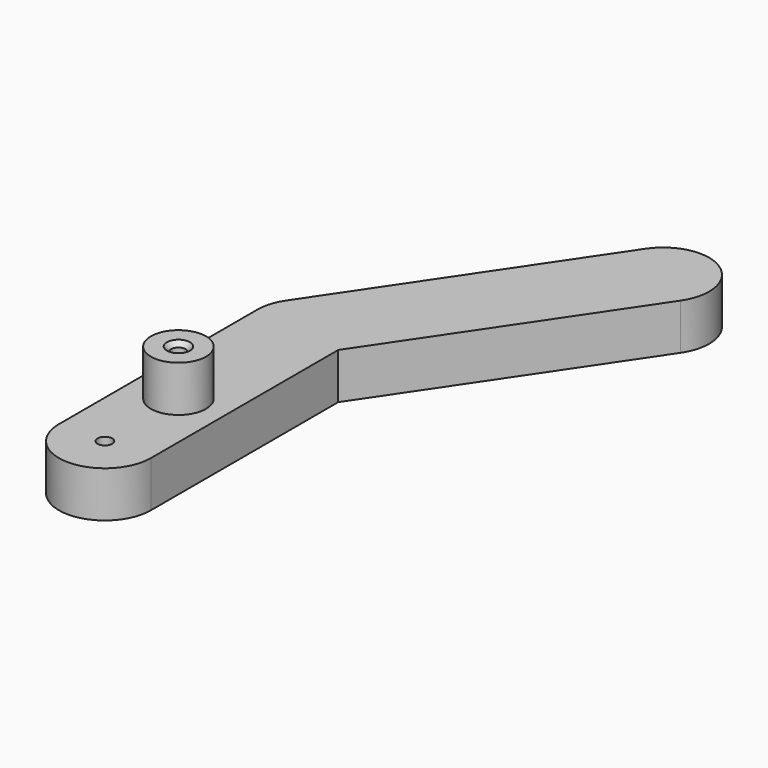
from build123d import *

# Parameters (mm, degrees)
F1_DEPTH       = 6.35
F2_R           = 3.81
F3_DEPTH       = 6.35
F5_D           = 2.032
F5_CSINK_D     = 3.175
F5_CSINK_ANGLE = 82
F7_D           = 2.032


with BuildPart() as f1:
    # F0 (on Top) → F1 (new body)
    with BuildSketch(Plane.XY):
        with BuildLine():
            ThreePointArc((6.35, 12.7), (4.4901280605, 8.2098719395), (0, 6.35))
            ThreePointArc((0, 6.35), (-4.4901280605, 8.2098719395), (-6.35, 12.7))
            Line((-6.35, 12.7), (-6.35, 0))
            ThreePointArc((-6.35, 0), (0, -6.35), (6.35, 0))
            Line((6.35, 0), (6.35, 12.7))
        make_face()
        with BuildLine():
            Line((6.35, 34.29), (6.35, 32.3486101727))
            Line((6.35, 32.3486101727), (27.9899881828, 64.4312120116))
            ThreePointArc((27.9899881828, 64.4312120116), (26.2764745341, 73.2464755344), (17.4612110113, 71.5329618857))
            Line((17.4612110113, 71.5329618857), (-5.2643885857, 37.840874937))
            ThreePointArc((-5.2643885857, 37.840874937), (-1.2116371206, 40.5233326149), (3.550874937, 39.5543885857))
            ThreePointArc((3.550874937, 39.5543885857), (5.6067172147, 37.2711444237), (6.35, 34.29))
        make_face()
        with BuildLine():
            Line((0, 12.7), (0, 6.35))
            ThreePointArc((0, 6.35), (4.4901280605, 8.2098719395), (6.35, 12.7))
            ThreePointArc((6.35, 12.7), (4.4901280605, 17.1901280605), (0, 19.05))
            Line((0, 19.05), (0, 12.7))
        make_face()
        with BuildLine():
            ThreePointArc((-6.35, 12.7), (-4.4901280605, 8.2098719395), (0, 6.35))
            Line((0, 6.35), (0, 12.7))
            Line((0, 12.7), (0, 19.05))
            ThreePointArc((0, 19.05), (-4.4901280605, 17.1901280605), (-6.35, 12.7))
        make_face()
        with BuildLine():
            Line((-6.35, 34.29), (-6.35, 12.7))
            ThreePointArc((-6.35, 12.7), (-4.4901280605, 17.1901280605), (0, 19.05))
            Line((0, 19.05), (0, 27.94))
            ThreePointArc((0, 27.94), (-4.4901280605, 29.7998719395), (-6.35, 34.29))
        make_face()
        with BuildLine():
            ThreePointArc((0, 19.05), (4.4901280605, 17.1901280605), (6.35, 12.7))
            Line((6.35, 12.7), (6.35, 32.3486101727))
            Line((6.35, 32.3486101727), (5.2643885857, 30.739125063))
            ThreePointArc((5.2643885857, 30.739125063), (2.9811444237, 28.6832827853), (0, 27.94))
            Line((0, 27.94), (0, 19.05))
        make_face()
        with BuildLine():
            ThreePointArc((-5.2643885857, 37.840874937), (-6.0725352004, 36.146560325), (-6.35, 34.29))
            ThreePointArc((-6.35, 34.29), (-4.4901280605, 29.7998719395), (0, 27.94))
            Line((0, 27.94), (0, 34.29))
            Line((0, 34.29), (3.550874937, 39.5543885857))
            ThreePointArc((3.550874937, 39.5543885857), (-1.2116371206, 40.5233326149), (-5.2643885857, 37.840874937))
        make_face()
        with BuildLine():
            Line((5.2643885857, 30.739125063), (6.35, 32.3486101727))
            Line((6.35, 32.3486101727), (6.35, 34.29))
            ThreePointArc((6.35, 34.29), (5.6067172147, 37.2711444237), (3.550874937, 39.5543885857))
            Line((3.550874937, 39.5543885857), (0, 34.29))
            Line((0, 34.29), (0, 27.94))
            ThreePointArc((0, 27.94), (2.9811444237, 28.6832827853), (5.2643885857, 30.739125063))
        make_face()
    extrude(amount=F1_DEPTH)

    # F2 (on face) → F3 (join)
    with BuildSketch(Plane.XY.offset(6.35)):
        with Locations((0, 12.7)):
            Circle(F2_R)
    extrude(amount=F3_DEPTH)

    # F5 (through all)
    with Locations(Plane.XY.offset(12.7)):
        with Locations((0, 12.7)):
            CounterSinkHole(F5_D / 2, F5_CSINK_D / 2, counter_sink_angle=F5_CSINK_ANGLE)

    # F7 (through all)
    with Locations(Plane.XY.offset(6.35)):
        with Locations((0, 0)):
            Hole(F7_D / 2)


solid = f1.part
